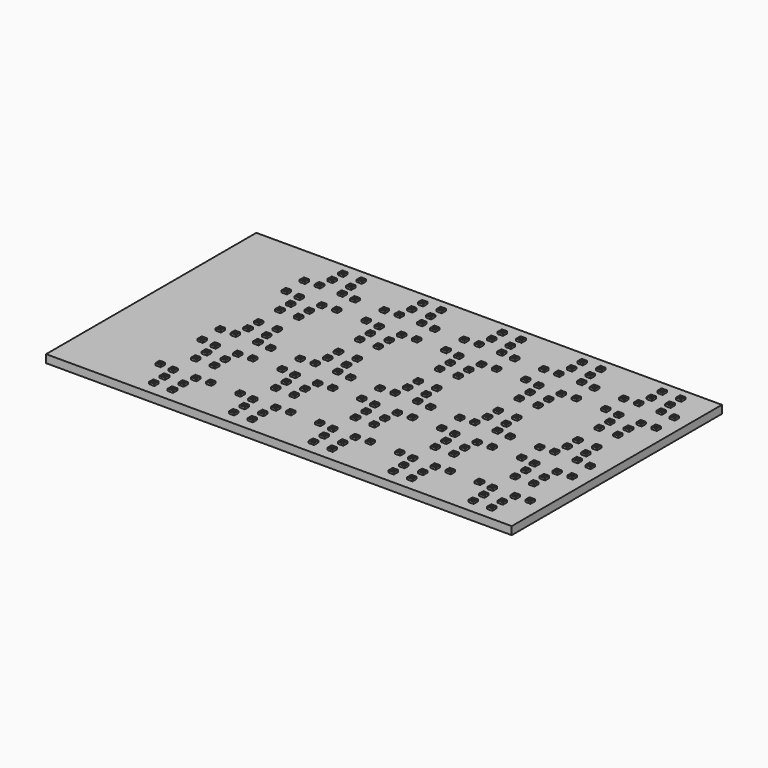
from build123d import *

# Parameters (mm, degrees)
F1_DEPTH     = 12
F2_W         = 8
F2_H         = 8
F3_DEPTH     = 15
F4_D         = 4
F5_D         = 4
F6_D         = 4
F1_FACE1_W   = 700
F1_FACE1_H   = 395
F1_FACE1_W_2 = 8
F1_FACE1_H_2 = 8
F8_DEPTH     = 4.46


with BuildPart() as f1:
    # F0 (on Top) → F1 (new body)
    with BuildSketch(Plane.XY):
        Polygon((-700, 0), (0, 0), (0, 395), (-60, 395), (-700, 395), align=None)
    extrude(amount=F1_DEPTH)

    # F2 (on face) → F3 (join)
    with BuildSketch(Plane.XY):
        with Locations((-22, 62)):
            Rectangle(F2_W, F2_H)
        with Locations((-46, 20)):
            Rectangle(F2_W, F2_H)
        with Locations((-46, 40)):
            Rectangle(F2_W, F2_H)
        with Locations((-43, 60)):
            Rectangle(F2_W, F2_H)
        with Locations((-46, 99)):
            Rectangle(F2_W, F2_H)
        with Locations((-46, 119)):
            Rectangle(F2_W, F2_H)
        with Locations((-43, 139)):
            Rectangle(F2_W, F2_H)
        with Locations((-22, 141)):
            Rectangle(F2_W, F2_H)
        with Locations((-22, 175)):
            Rectangle(F2_W, F2_H)
        with Locations((-43, 177)):
            Rectangle(F2_W, F2_H)
        with Locations((-46, 197)):
            Rectangle(F2_W, F2_H)
        with Locations((-46, 217)):
            Rectangle(F2_W, F2_H)
        with Locations((-46, 257)):
            Rectangle(F2_W, F2_H)
        with Locations((-46, 277)):
            Rectangle(F2_W, F2_H)
        with Locations((-43, 297)):
            Rectangle(F2_W, F2_H)
        with Locations((-22, 299)):
            Rectangle(F2_W, F2_H)
        with Locations((-22, 333)):
            Rectangle(F2_W, F2_H)
        with Locations((-43, 335)):
            Rectangle(F2_W, F2_H)
        with Locations((-46, 355)):
            Rectangle(F2_W, F2_H)
        with Locations((-46, 375)):
            Rectangle(F2_W, F2_H)
        with Locations((-77, 139)):
            Rectangle(F2_W, F2_H)
        with Locations((-77, 297)):
            Rectangle(F2_W, F2_H)
        with Locations((-74, 277)):
            Rectangle(F2_W, F2_H)
        with Locations((-74, 40)):
            Rectangle(F2_W, F2_H)
        with Locations((-74, 257)):
            Rectangle(F2_W, F2_H)
        with Locations((-74, 217)):
            Rectangle(F2_W, F2_H)
        with Locations((-74, 197)):
            Rectangle(F2_W, F2_H)
        with Locations((-74, 119)):
            Rectangle(F2_W, F2_H)
        with Locations((-74, 375)):
            Rectangle(F2_W, F2_H)
        with Locations((-77, 335)):
            Rectangle(F2_W, F2_H)
        with Locations((-77, 177)):
            Rectangle(F2_W, F2_H)
        with Locations((-74, 355)):
            Rectangle(F2_W, F2_H)
        with Locations((-77, 60)):
            Rectangle(F2_W, F2_H)
        with Locations((-74, 20)):
            Rectangle(F2_W, F2_H)
        with Locations((-74, 99)):
            Rectangle(F2_W, F2_H)
        with Locations((-98, 141)):
            Rectangle(F2_W, F2_H)
        with Locations((-98, 333)):
            Rectangle(F2_W, F2_H)
        with Locations((-98, 299)):
            Rectangle(F2_W, F2_H)
        with Locations((-98, 62)):
            Rectangle(F2_W, F2_H)
        with Locations((-98, 175)):
            Rectangle(F2_W, F2_H)
        with Locations((-218, 333)):
            Rectangle(F2_W, F2_H)
        with Locations((-142, 333)):
            Rectangle(F2_W, F2_H)
        with Locations((-166, 99)):
            Rectangle(F2_W, F2_H)
        with Locations((-194, 217)):
            Rectangle(F2_W, F2_H)
        with Locations((-218, 62)):
            Rectangle(F2_W, F2_H)
        with Locations((-166, 217)):
            Rectangle(F2_W, F2_H)
        with Locations((-194, 197)):
            Rectangle(F2_W, F2_H)
        with Locations((-218, 299)):
            Rectangle(F2_W, F2_H)
        with Locations((-218, 141)):
            Rectangle(F2_W, F2_H)
        with Locations((-142, 175)):
            Rectangle(F2_W, F2_H)
        with Locations((-142, 62)):
            Rectangle(F2_W, F2_H)
        with Locations((-194, 375)):
            Rectangle(F2_W, F2_H)
        with Locations((-197, 60)):
            Rectangle(F2_W, F2_H)
        with Locations((-218, 175)):
            Rectangle(F2_W, F2_H)
        with Locations((-166, 375)):
            Rectangle(F2_W, F2_H)
        with Locations((-166, 257)):
            Rectangle(F2_W, F2_H)
        with Locations((-166, 355)):
            Rectangle(F2_W, F2_H)
        with Locations((-166, 197)):
            Rectangle(F2_W, F2_H)
        with Locations((-163, 177)):
            Rectangle(F2_W, F2_H)
        with Locations((-197, 297)):
            Rectangle(F2_W, F2_H)
        with Locations((-194, 257)):
            Rectangle(F2_W, F2_H)
        with Locations((-163, 60)):
            Rectangle(F2_W, F2_H)
        with Locations((-197, 139)):
            Rectangle(F2_W, F2_H)
        with Locations((-197, 177)):
            Rectangle(F2_W, F2_H)
        with Locations((-194, 40)):
            Rectangle(F2_W, F2_H)
        with Locations((-166, 20)):
            Rectangle(F2_W, F2_H)
        with Locations((-194, 119)):
            Rectangle(F2_W, F2_H)
        with Locations((-194, 20)):
            Rectangle(F2_W, F2_H)
        with Locations((-194, 355)):
            Rectangle(F2_W, F2_H)
        with Locations((-166, 40)):
            Rectangle(F2_W, F2_H)
        with Locations((-194, 99)):
            Rectangle(F2_W, F2_H)
        with Locations((-197, 335)):
            Rectangle(F2_W, F2_H)
        with Locations((-163, 139)):
            Rectangle(F2_W, F2_H)
        with Locations((-163, 335)):
            Rectangle(F2_W, F2_H)
        with Locations((-142, 141)):
            Rectangle(F2_W, F2_H)
        with Locations((-163, 297)):
            Rectangle(F2_W, F2_H)
        with Locations((-142, 299)):
            Rectangle(F2_W, F2_H)
        with Locations((-166, 119)):
            Rectangle(F2_W, F2_H)
        with Locations((-166, 277)):
            Rectangle(F2_W, F2_H)
        with Locations((-194, 277)):
            Rectangle(F2_W, F2_H)
        with Locations((-338, 333)):
            Rectangle(F2_W, F2_H)
        with Locations((-262, 333)):
            Rectangle(F2_W, F2_H)
        with Locations((-286, 99)):
            Rectangle(F2_W, F2_H)
        with Locations((-314, 217)):
            Rectangle(F2_W, F2_H)
        with Locations((-338, 62)):
            Rectangle(F2_W, F2_H)
        with Locations((-286, 217)):
            Rectangle(F2_W, F2_H)
        with Locations((-314, 197)):
            Rectangle(F2_W, F2_H)
        with Locations((-338, 299)):
            Rectangle(F2_W, F2_H)
        with Locations((-338, 141)):
            Rectangle(F2_W, F2_H)
        with Locations((-262, 175)):
            Rectangle(F2_W, F2_H)
        with Locations((-262, 62)):
            Rectangle(F2_W, F2_H)
        with Locations((-314, 375)):
            Rectangle(F2_W, F2_H)
        with Locations((-317, 60)):
            Rectangle(F2_W, F2_H)
        with Locations((-338, 175)):
            Rectangle(F2_W, F2_H)
        with Locations((-286, 375)):
            Rectangle(F2_W, F2_H)
        with Locations((-286, 257)):
            Rectangle(F2_W, F2_H)
        with Locations((-286, 355)):
            Rectangle(F2_W, F2_H)
        with Locations((-286, 197)):
            Rectangle(F2_W, F2_H)
        with Locations((-283, 177)):
            Rectangle(F2_W, F2_H)
        with Locations((-317, 297)):
            Rectangle(F2_W, F2_H)
        with Locations((-314, 257)):
            Rectangle(F2_W, F2_H)
        with Locations((-283, 60)):
            Rectangle(F2_W, F2_H)
        with Locations((-317, 139)):
            Rectangle(F2_W, F2_H)
        with Locations((-317, 177)):
            Rectangle(F2_W, F2_H)
        with Locations((-314, 40)):
            Rectangle(F2_W, F2_H)
        with Locations((-286, 20)):
            Rectangle(F2_W, F2_H)
        with Locations((-314, 119)):
            Rectangle(F2_W, F2_H)
        with Locations((-314, 20)):
            Rectangle(F2_W, F2_H)
        with Locations((-314, 355)):
            Rectangle(F2_W, F2_H)
        with Locations((-286, 40)):
            Rectangle(F2_W, F2_H)
        with Locations((-314, 99)):
            Rectangle(F2_W, F2_H)
        with Locations((-317, 335)):
            Rectangle(F2_W, F2_H)
        with Locations((-283, 139)):
            Rectangle(F2_W, F2_H)
        with Locations((-283, 335)):
            Rectangle(F2_W, F2_H)
        with Locations((-262, 141)):
            Rectangle(F2_W, F2_H)
        with Locations((-283, 297)):
            Rectangle(F2_W, F2_H)
        with Locations((-262, 299)):
            Rectangle(F2_W, F2_H)
        with Locations((-286, 119)):
            Rectangle(F2_W, F2_H)
        with Locations((-286, 277)):
            Rectangle(F2_W, F2_H)
        with Locations((-314, 277)):
            Rectangle(F2_W, F2_H)
        with Locations((-458, 333)):
            Rectangle(F2_W, F2_H)
        with Locations((-382, 333)):
            Rectangle(F2_W, F2_H)
        with Locations((-406, 99)):
            Rectangle(F2_W, F2_H)
        with Locations((-434, 217)):
            Rectangle(F2_W, F2_H)
        with Locations((-458, 62)):
            Rectangle(F2_W, F2_H)
        with Locations((-406, 217)):
            Rectangle(F2_W, F2_H)
        with Locations((-434, 197)):
            Rectangle(F2_W, F2_H)
        with Locations((-458, 299)):
            Rectangle(F2_W, F2_H)
        with Locations((-458, 141)):
            Rectangle(F2_W, F2_H)
        with Locations((-382, 175)):
            Rectangle(F2_W, F2_H)
        with Locations((-382, 62)):
            Rectangle(F2_W, F2_H)
        with Locations((-434, 375)):
            Rectangle(F2_W, F2_H)
        with Locations((-437, 60)):
            Rectangle(F2_W, F2_H)
        with Locations((-458, 175)):
            Rectangle(F2_W, F2_H)
        with Locations((-406, 375)):
            Rectangle(F2_W, F2_H)
        with Locations((-406, 257)):
            Rectangle(F2_W, F2_H)
        with Locations((-406, 355)):
            Rectangle(F2_W, F2_H)
        with Locations((-406, 197)):
            Rectangle(F2_W, F2_H)
        with Locations((-403, 177)):
            Rectangle(F2_W, F2_H)
        with Locations((-437, 297)):
            Rectangle(F2_W, F2_H)
        with Locations((-434, 257)):
            Rectangle(F2_W, F2_H)
        with Locations((-403, 60)):
            Rectangle(F2_W, F2_H)
        with Locations((-437, 139)):
            Rectangle(F2_W, F2_H)
        with Locations((-437, 177)):
            Rectangle(F2_W, F2_H)
        with Locations((-434, 40)):
            Rectangle(F2_W, F2_H)
        with Locations((-406, 20)):
            Rectangle(F2_W, F2_H)
        with Locations((-434, 119)):
            Rectangle(F2_W, F2_H)
        with Locations((-434, 20)):
            Rectangle(F2_W, F2_H)
        with Locations((-434, 355)):
            Rectangle(F2_W, F2_H)
        with Locations((-406, 40)):
            Rectangle(F2_W, F2_H)
        with Locations((-434, 99)):
            Rectangle(F2_W, F2_H)
        with Locations((-437, 335)):
            Rectangle(F2_W, F2_H)
        with Locations((-403, 139)):
            Rectangle(F2_W, F2_H)
        with Locations((-403, 335)):
            Rectangle(F2_W, F2_H)
        with Locations((-382, 141)):
            Rectangle(F2_W, F2_H)
        with Locations((-403, 297)):
            Rectangle(F2_W, F2_H)
        with Locations((-382, 299)):
            Rectangle(F2_W, F2_H)
        with Locations((-406, 119)):
            Rectangle(F2_W, F2_H)
        with Locations((-406, 277)):
            Rectangle(F2_W, F2_H)
        with Locations((-434, 277)):
            Rectangle(F2_W, F2_H)
        with Locations((-578, 333)):
            Rectangle(F2_W, F2_H)
        with Locations((-502, 333)):
            Rectangle(F2_W, F2_H)
        with Locations((-526, 99)):
            Rectangle(F2_W, F2_H)
        with Locations((-554, 217)):
            Rectangle(F2_W, F2_H)
        with Locations((-578, 62)):
            Rectangle(F2_W, F2_H)
        with Locations((-526, 217)):
            Rectangle(F2_W, F2_H)
        with Locations((-554, 197)):
            Rectangle(F2_W, F2_H)
        with Locations((-578, 299)):
            Rectangle(F2_W, F2_H)
        with Locations((-578, 141)):
            Rectangle(F2_W, F2_H)
        with Locations((-502, 175)):
            Rectangle(F2_W, F2_H)
        with Locations((-502, 62)):
            Rectangle(F2_W, F2_H)
        with Locations((-554, 375)):
            Rectangle(F2_W, F2_H)
        with Locations((-557, 60)):
            Rectangle(F2_W, F2_H)
        with Locations((-578, 175)):
            Rectangle(F2_W, F2_H)
        with Locations((-526, 375)):
            Rectangle(F2_W, F2_H)
        with Locations((-526, 257)):
            Rectangle(F2_W, F2_H)
        with Locations((-526, 355)):
            Rectangle(F2_W, F2_H)
        with Locations((-526, 197)):
            Rectangle(F2_W, F2_H)
        with Locations((-523, 177)):
            Rectangle(F2_W, F2_H)
        with Locations((-557, 297)):
            Rectangle(F2_W, F2_H)
        with Locations((-554, 257)):
            Rectangle(F2_W, F2_H)
        with Locations((-523, 60)):
            Rectangle(F2_W, F2_H)
        with Locations((-557, 139)):
            Rectangle(F2_W, F2_H)
        with Locations((-557, 177)):
            Rectangle(F2_W, F2_H)
        with Locations((-554, 40)):
            Rectangle(F2_W, F2_H)
        with Locations((-526, 20)):
            Rectangle(F2_W, F2_H)
        with Locations((-554, 119)):
            Rectangle(F2_W, F2_H)
        with Locations((-554, 20)):
            Rectangle(F2_W, F2_H)
        with Locations((-554, 355)):
            Rectangle(F2_W, F2_H)
        with Locations((-526, 40)):
            Rectangle(F2_W, F2_H)
        with Locations((-554, 99)):
            Rectangle(F2_W, F2_H)
        with Locations((-557, 335)):
            Rectangle(F2_W, F2_H)
        with Locations((-523, 139)):
            Rectangle(F2_W, F2_H)
        with Locations((-523, 335)):
            Rectangle(F2_W, F2_H)
        with Locations((-502, 141)):
            Rectangle(F2_W, F2_H)
        with Locations((-523, 297)):
            Rectangle(F2_W, F2_H)
        with Locations((-502, 299)):
            Rectangle(F2_W, F2_H)
        with Locations((-526, 119)):
            Rectangle(F2_W, F2_H)
        with Locations((-526, 277)):
            Rectangle(F2_W, F2_H)
        with Locations((-554, 277)):
            Rectangle(F2_W, F2_H)
    extrude(amount=F3_DEPTH)

    # F4 (through all)
    with Locations(Plane(origin=(0, 0, 0), x_dir=(1, 0, 0), z_dir=(0, 0, -1))):
        with Locations((-406, -257), (-314, -277), (-262, -333), (-46, -217), (-437, -297), (-314, -257), (-403, -335), (-578, -333), (-166, -375), (-338, -333), (-554, -257), (-74, -217), (-166, -197), (-434, -375), (-578, -299), (-406, -197), (-526, -257), (-523, -335), (-74, -277), (-77, -297), (-314, -217), (-74, -197), (-406, -277), (-166, -277), (-382, -333), (-286, -277), (-98, -333), (-194, -375), (-262, -299), (-437, -335), (-434, -257), (-46, -197), (-46, -375), (-43, -297), (-197, -297), (-166, -355), (-43, -335), (-194, -217), (-458, -299), (-286, -257), (-46, -277), (-286, -355), (-142, -333), (-218, -299), (-403, -297), (-554, -277), (-557, -297), (-526, -217), (-163, -335), (-46, -257), (-218, -333), (-163, -297), (-194, -197), (-526, -197), (-434, -277), (-314, -375), (-166, -217), (-458, -333), (-406, -375), (-554, -197), (-317, -297), (-286, -375), (-434, -217), (-286, -217), (-77, -335), (-142, -299), (-46, -355), (-194, -355), (-314, -355), (-98, -299), (-314, -197), (-557, -335), (-526, -375), (-283, -297), (-74, -375), (-74, -257), (-523, -297), (-554, -375), (-502, -333), (-338, -299), (-194, -257), (-22, -299), (-554, -217), (-526, -277), (-526, -355), (-22, -333), (-286, -197), (-434, -355), (-74, -355), (-406, -217), (-283, -335), (-382, -299), (-317, -335), (-194, -277), (-502, -299), (-166, -257), (-554, -355), (-197, -335), (-434, -197), (-406, -355)):
            Hole(F4_D / 2)

    # F5 (through all)
    with Locations(Plane(origin=(0, 0, 0), x_dir=(1, 0, 0), z_dir=(0, 0, -1))):
        with Locations((-434, -40), (-163, -60), (-166, -119), (-523, -139), (-578, -62), (-382, -141), (-458, -141), (-194, -40), (-554, -40), (-406, -99), (-314, -119), (-194, -20), (-286, -40), (-286, -119), (-262, -141), (-74, -40), (-74, -20), (-166, -99), (-283, -60), (-406, -20), (-502, -62), (-194, -99), (-382, -62), (-434, -119), (-578, -141), (-218, -141), (-166, -20), (-437, -139), (-554, -119), (-218, -62), (-142, -141), (-286, -20), (-194, -119), (-406, -40), (-142, -62), (-317, -60), (-338, -141), (-283, -139), (-197, -60), (-286, -99), (-434, -99), (-197, -139), (-317, -139), (-526, -99), (-77, -139), (-338, -62), (-403, -139), (-437, -60), (-166, -40), (-526, -40), (-314, -20), (-163, -139), (-98, -62), (-434, -20), (-98, -141), (-406, -119), (-77, -60), (-74, -119), (-262, -62), (-554, -20), (-502, -141), (-526, -20), (-314, -99), (-557, -139), (-403, -60), (-458, -62), (-314, -40), (-557, -60), (-554, -99), (-526, -119), (-74, -99), (-523, -60), (-46, -119), (-46, -99), (-43, -60), (-46, -40), (-46, -20), (-22, -141), (-22, -62), (-43, -139)):
            Hole(F5_D / 2)

    # F6 (through all)
    with Locations(Plane(origin=(0, 0, 0), x_dir=(1, 0, 0), z_dir=(0, 0, -1))):
        with Locations((-43, -177), (-338, -175), (-317, -177), (-197, -177), (-458, -175), (-218, -175), (-578, -175), (-557, -177), (-502, -175), (-77, -177), (-283, -177), (-163, -177), (-22, -175), (-437, -177), (-142, -175), (-262, -175), (-382, -175), (-403, -177), (-98, -175), (-523, -177)):
            Hole(F6_D / 2)

    # F7 (on face) + F1_face1 (on face) → F8 (cut)
    with BuildSketch(Plane(origin=(0, 0, 0), x_dir=(1, 0, 0), z_dir=(0, 0, -1))):
        with BuildLine():
            Line((-700, -390), (-25, -390))
            ThreePointArc((-25, -390), (-10.8578643763, -384.1421356237), (-5, -370))
            Line((-5, -370), (-5, -25))
            ThreePointArc((-5, -25), (-10.8578643763, -10.8578643763), (-25, -5))
            Line((-25, -5), (-700, -5))
            Line((-700, -5), (-700, -390))
        make_face()
    with BuildSketch(Plane(origin=(-352.4270003792, 197.4417519909, 12), x_dir=(1, 0, 0), z_dir=(0, 0, 1))):
        with Locations((2.4270003792, 0.0582480091)):
            Rectangle(F1_FACE1_W, F1_FACE1_H)
        with Locations((-201.5729996208, -177.4417519909)):
            Rectangle(F1_FACE1_W_2, F1_FACE1_H_2, mode=Mode.SUBTRACT)
        with Locations((-173.5729996208, -177.4417519909)):
            Rectangle(F1_FACE1_W_2, F1_FACE1_H_2, mode=Mode.SUBTRACT)
        with Locations((-201.5729996208, -157.4417519909)):
            Rectangle(F1_FACE1_W_2, F1_FACE1_H_2, mode=Mode.SUBTRACT)
        with Locations((-204.5729996208, -137.4417519909)):
            Rectangle(F1_FACE1_W_2, F1_FACE1_H_2, mode=Mode.SUBTRACT)
        with Locations((-173.5729996208, -157.4417519909)):
            Rectangle(F1_FACE1_W_2, F1_FACE1_H_2, mode=Mode.SUBTRACT)
        with Locations((-170.5729996208, -137.4417519909)):
            Rectangle(F1_FACE1_W_2, F1_FACE1_H_2, mode=Mode.SUBTRACT)
        with Locations((-225.5729996208, -135.4417519909)):
            Rectangle(F1_FACE1_W_2, F1_FACE1_H_2, mode=Mode.SUBTRACT)
        with Locations((-201.5729996208, -98.4417519909)):
            Rectangle(F1_FACE1_W_2, F1_FACE1_H_2, mode=Mode.SUBTRACT)
        with Locations((-173.5729996208, -98.4417519909)):
            Rectangle(F1_FACE1_W_2, F1_FACE1_H_2, mode=Mode.SUBTRACT)
        with Locations((-149.5729996208, -135.4417519909)):
            Rectangle(F1_FACE1_W_2, F1_FACE1_H_2, mode=Mode.SUBTRACT)
        with Locations((-105.5729996208, -135.4417519909)):
            Rectangle(F1_FACE1_W_2, F1_FACE1_H_2, mode=Mode.SUBTRACT)
        with Locations((-81.5729996208, -177.4417519909)):
            Rectangle(F1_FACE1_W_2, F1_FACE1_H_2, mode=Mode.SUBTRACT)
        with Locations((-53.5729996208, -177.4417519909)):
            Rectangle(F1_FACE1_W_2, F1_FACE1_H_2, mode=Mode.SUBTRACT)
        with Locations((-81.5729996208, -157.4417519909)):
            Rectangle(F1_FACE1_W_2, F1_FACE1_H_2, mode=Mode.SUBTRACT)
        with Locations((-53.5729996208, -157.4417519909)):
            Rectangle(F1_FACE1_W_2, F1_FACE1_H_2, mode=Mode.SUBTRACT)
        with Locations((-84.5729996208, -137.4417519909)):
            Rectangle(F1_FACE1_W_2, F1_FACE1_H_2, mode=Mode.SUBTRACT)
        with Locations((-50.5729996208, -137.4417519909)):
            Rectangle(F1_FACE1_W_2, F1_FACE1_H_2, mode=Mode.SUBTRACT)
        with Locations((38.4270003792, -177.4417519909)):
            Rectangle(F1_FACE1_W_2, F1_FACE1_H_2, mode=Mode.SUBTRACT)
        with Locations((38.4270003792, -157.4417519909)):
            Rectangle(F1_FACE1_W_2, F1_FACE1_H_2, mode=Mode.SUBTRACT)
        with Locations((35.4270003792, -137.4417519909)):
            Rectangle(F1_FACE1_W_2, F1_FACE1_H_2, mode=Mode.SUBTRACT)
        with Locations((-29.5729996208, -135.4417519909)):
            Rectangle(F1_FACE1_W_2, F1_FACE1_H_2, mode=Mode.SUBTRACT)
        with Locations((-81.5729996208, -98.4417519909)):
            Rectangle(F1_FACE1_W_2, F1_FACE1_H_2, mode=Mode.SUBTRACT)
        with Locations((-53.5729996208, -98.4417519909)):
            Rectangle(F1_FACE1_W_2, F1_FACE1_H_2, mode=Mode.SUBTRACT)
        with Locations((14.4270003792, -135.4417519909)):
            Rectangle(F1_FACE1_W_2, F1_FACE1_H_2, mode=Mode.SUBTRACT)
        with Locations((38.4270003792, -98.4417519909)):
            Rectangle(F1_FACE1_W_2, F1_FACE1_H_2, mode=Mode.SUBTRACT)
        with Locations((-201.5729996208, -78.4417519909)):
            Rectangle(F1_FACE1_W_2, F1_FACE1_H_2, mode=Mode.SUBTRACT)
        with Locations((-173.5729996208, -78.4417519909)):
            Rectangle(F1_FACE1_W_2, F1_FACE1_H_2, mode=Mode.SUBTRACT)
        with Locations((-204.5729996208, -58.4417519909)):
            Rectangle(F1_FACE1_W_2, F1_FACE1_H_2, mode=Mode.SUBTRACT)
        with Locations((-225.5729996208, -56.4417519909)):
            Rectangle(F1_FACE1_W_2, F1_FACE1_H_2, mode=Mode.SUBTRACT)
        with Locations((-170.5729996208, -58.4417519909)):
            Rectangle(F1_FACE1_W_2, F1_FACE1_H_2, mode=Mode.SUBTRACT)
        with Locations((-149.5729996208, -56.4417519909)):
            Rectangle(F1_FACE1_W_2, F1_FACE1_H_2, mode=Mode.SUBTRACT)
        with Locations((-105.5729996208, -56.4417519909)):
            Rectangle(F1_FACE1_W_2, F1_FACE1_H_2, mode=Mode.SUBTRACT)
        with Locations((-225.5729996208, -22.4417519909)):
            Rectangle(F1_FACE1_W_2, F1_FACE1_H_2, mode=Mode.SUBTRACT)
        with Locations((-204.5729996208, -20.4417519909)):
            Rectangle(F1_FACE1_W_2, F1_FACE1_H_2, mode=Mode.SUBTRACT)
        with Locations((-201.5729996208, -0.4417519909)):
            Rectangle(F1_FACE1_W_2, F1_FACE1_H_2, mode=Mode.SUBTRACT)
        with Locations((-170.5729996208, -20.4417519909)):
            Rectangle(F1_FACE1_W_2, F1_FACE1_H_2, mode=Mode.SUBTRACT)
        with Locations((-173.5729996208, -0.4417519909)):
            Rectangle(F1_FACE1_W_2, F1_FACE1_H_2, mode=Mode.SUBTRACT)
        with Locations((-149.5729996208, -22.4417519909)):
            Rectangle(F1_FACE1_W_2, F1_FACE1_H_2, mode=Mode.SUBTRACT)
        with Locations((-105.5729996208, -22.4417519909)):
            Rectangle(F1_FACE1_W_2, F1_FACE1_H_2, mode=Mode.SUBTRACT)
        with Locations((-81.5729996208, -78.4417519909)):
            Rectangle(F1_FACE1_W_2, F1_FACE1_H_2, mode=Mode.SUBTRACT)
        with Locations((-53.5729996208, -78.4417519909)):
            Rectangle(F1_FACE1_W_2, F1_FACE1_H_2, mode=Mode.SUBTRACT)
        with Locations((-84.5729996208, -58.4417519909)):
            Rectangle(F1_FACE1_W_2, F1_FACE1_H_2, mode=Mode.SUBTRACT)
        with Locations((-50.5729996208, -58.4417519909)):
            Rectangle(F1_FACE1_W_2, F1_FACE1_H_2, mode=Mode.SUBTRACT)
        with Locations((-29.5729996208, -56.4417519909)):
            Rectangle(F1_FACE1_W_2, F1_FACE1_H_2, mode=Mode.SUBTRACT)
        with Locations((38.4270003792, -78.4417519909)):
            Rectangle(F1_FACE1_W_2, F1_FACE1_H_2, mode=Mode.SUBTRACT)
        with Locations((14.4270003792, -56.4417519909)):
            Rectangle(F1_FACE1_W_2, F1_FACE1_H_2, mode=Mode.SUBTRACT)
        with Locations((35.4270003792, -58.4417519909)):
            Rectangle(F1_FACE1_W_2, F1_FACE1_H_2, mode=Mode.SUBTRACT)
        with Locations((-84.5729996208, -20.4417519909)):
            Rectangle(F1_FACE1_W_2, F1_FACE1_H_2, mode=Mode.SUBTRACT)
        with Locations((-81.5729996208, -0.4417519909)):
            Rectangle(F1_FACE1_W_2, F1_FACE1_H_2, mode=Mode.SUBTRACT)
        with Locations((-53.5729996208, -0.4417519909)):
            Rectangle(F1_FACE1_W_2, F1_FACE1_H_2, mode=Mode.SUBTRACT)
        with Locations((-50.5729996208, -20.4417519909)):
            Rectangle(F1_FACE1_W_2, F1_FACE1_H_2, mode=Mode.SUBTRACT)
        with Locations((-29.5729996208, -22.4417519909)):
            Rectangle(F1_FACE1_W_2, F1_FACE1_H_2, mode=Mode.SUBTRACT)
        with Locations((14.4270003792, -22.4417519909)):
            Rectangle(F1_FACE1_W_2, F1_FACE1_H_2, mode=Mode.SUBTRACT)
        with Locations((35.4270003792, -20.4417519909)):
            Rectangle(F1_FACE1_W_2, F1_FACE1_H_2, mode=Mode.SUBTRACT)
        with Locations((38.4270003792, -0.4417519909)):
            Rectangle(F1_FACE1_W_2, F1_FACE1_H_2, mode=Mode.SUBTRACT)
        with Locations((66.4270003792, -177.4417519909)):
            Rectangle(F1_FACE1_W_2, F1_FACE1_H_2, mode=Mode.SUBTRACT)
        with Locations((66.4270003792, -157.4417519909)):
            Rectangle(F1_FACE1_W_2, F1_FACE1_H_2, mode=Mode.SUBTRACT)
        with Locations((69.4270003792, -137.4417519909)):
            Rectangle(F1_FACE1_W_2, F1_FACE1_H_2, mode=Mode.SUBTRACT)
        with Locations((158.4270003792, -177.4417519909)):
            Rectangle(F1_FACE1_W_2, F1_FACE1_H_2, mode=Mode.SUBTRACT)
        with Locations((186.4270003792, -177.4417519909)):
            Rectangle(F1_FACE1_W_2, F1_FACE1_H_2, mode=Mode.SUBTRACT)
        with Locations((155.4270003792, -137.4417519909)):
            Rectangle(F1_FACE1_W_2, F1_FACE1_H_2, mode=Mode.SUBTRACT)
        with Locations((158.4270003792, -157.4417519909)):
            Rectangle(F1_FACE1_W_2, F1_FACE1_H_2, mode=Mode.SUBTRACT)
        with Locations((186.4270003792, -157.4417519909)):
            Rectangle(F1_FACE1_W_2, F1_FACE1_H_2, mode=Mode.SUBTRACT)
        with Locations((189.4270003792, -137.4417519909)):
            Rectangle(F1_FACE1_W_2, F1_FACE1_H_2, mode=Mode.SUBTRACT)
        with Locations((90.4270003792, -135.4417519909)):
            Rectangle(F1_FACE1_W_2, F1_FACE1_H_2, mode=Mode.SUBTRACT)
        with Locations((66.4270003792, -98.4417519909)):
            Rectangle(F1_FACE1_W_2, F1_FACE1_H_2, mode=Mode.SUBTRACT)
        with Locations((134.4270003792, -135.4417519909)):
            Rectangle(F1_FACE1_W_2, F1_FACE1_H_2, mode=Mode.SUBTRACT)
        with Locations((158.4270003792, -98.4417519909)):
            Rectangle(F1_FACE1_W_2, F1_FACE1_H_2, mode=Mode.SUBTRACT)
        with Locations((186.4270003792, -98.4417519909)):
            Rectangle(F1_FACE1_W_2, F1_FACE1_H_2, mode=Mode.SUBTRACT)
        with Locations((278.4270003792, -177.4417519909)):
            Rectangle(F1_FACE1_W_2, F1_FACE1_H_2, mode=Mode.SUBTRACT)
        with Locations((306.4270003792, -177.4417519909)):
            Rectangle(F1_FACE1_W_2, F1_FACE1_H_2, mode=Mode.SUBTRACT)
        with Locations((278.4270003792, -157.4417519909)):
            Rectangle(F1_FACE1_W_2, F1_FACE1_H_2, mode=Mode.SUBTRACT)
        with Locations((275.4270003792, -137.4417519909)):
            Rectangle(F1_FACE1_W_2, F1_FACE1_H_2, mode=Mode.SUBTRACT)
        with Locations((306.4270003792, -157.4417519909)):
            Rectangle(F1_FACE1_W_2, F1_FACE1_H_2, mode=Mode.SUBTRACT)
        with Locations((309.4270003792, -137.4417519909)):
            Rectangle(F1_FACE1_W_2, F1_FACE1_H_2, mode=Mode.SUBTRACT)
        with Locations((210.4270003792, -135.4417519909)):
            Rectangle(F1_FACE1_W_2, F1_FACE1_H_2, mode=Mode.SUBTRACT)
        with Locations((254.4270003792, -135.4417519909)):
            Rectangle(F1_FACE1_W_2, F1_FACE1_H_2, mode=Mode.SUBTRACT)
        with Locations((330.4270003792, -135.4417519909)):
            Rectangle(F1_FACE1_W_2, F1_FACE1_H_2, mode=Mode.SUBTRACT)
        with Locations((278.4270003792, -98.4417519909)):
            Rectangle(F1_FACE1_W_2, F1_FACE1_H_2, mode=Mode.SUBTRACT)
        with Locations((306.4270003792, -98.4417519909)):
            Rectangle(F1_FACE1_W_2, F1_FACE1_H_2, mode=Mode.SUBTRACT)
        with Locations((66.4270003792, -78.4417519909)):
            Rectangle(F1_FACE1_W_2, F1_FACE1_H_2, mode=Mode.SUBTRACT)
        with Locations((69.4270003792, -58.4417519909)):
            Rectangle(F1_FACE1_W_2, F1_FACE1_H_2, mode=Mode.SUBTRACT)
        with Locations((90.4270003792, -56.4417519909)):
            Rectangle(F1_FACE1_W_2, F1_FACE1_H_2, mode=Mode.SUBTRACT)
        with Locations((158.4270003792, -78.4417519909)):
            Rectangle(F1_FACE1_W_2, F1_FACE1_H_2, mode=Mode.SUBTRACT)
        with Locations((186.4270003792, -78.4417519909)):
            Rectangle(F1_FACE1_W_2, F1_FACE1_H_2, mode=Mode.SUBTRACT)
        with Locations((155.4270003792, -58.4417519909)):
            Rectangle(F1_FACE1_W_2, F1_FACE1_H_2, mode=Mode.SUBTRACT)
        with Locations((134.4270003792, -56.4417519909)):
            Rectangle(F1_FACE1_W_2, F1_FACE1_H_2, mode=Mode.SUBTRACT)
        with Locations((189.4270003792, -58.4417519909)):
            Rectangle(F1_FACE1_W_2, F1_FACE1_H_2, mode=Mode.SUBTRACT)
        with Locations((69.4270003792, -20.4417519909)):
            Rectangle(F1_FACE1_W_2, F1_FACE1_H_2, mode=Mode.SUBTRACT)
        with Locations((66.4270003792, -0.4417519909)):
            Rectangle(F1_FACE1_W_2, F1_FACE1_H_2, mode=Mode.SUBTRACT)
        with Locations((90.4270003792, -22.4417519909)):
            Rectangle(F1_FACE1_W_2, F1_FACE1_H_2, mode=Mode.SUBTRACT)
        with Locations((134.4270003792, -22.4417519909)):
            Rectangle(F1_FACE1_W_2, F1_FACE1_H_2, mode=Mode.SUBTRACT)
        with Locations((155.4270003792, -20.4417519909)):
            Rectangle(F1_FACE1_W_2, F1_FACE1_H_2, mode=Mode.SUBTRACT)
        with Locations((189.4270003792, -20.4417519909)):
            Rectangle(F1_FACE1_W_2, F1_FACE1_H_2, mode=Mode.SUBTRACT)
        with Locations((158.4270003792, -0.4417519909)):
            Rectangle(F1_FACE1_W_2, F1_FACE1_H_2, mode=Mode.SUBTRACT)
        with Locations((186.4270003792, -0.4417519909)):
            Rectangle(F1_FACE1_W_2, F1_FACE1_H_2, mode=Mode.SUBTRACT)
        with Locations((210.4270003792, -56.4417519909)):
            Rectangle(F1_FACE1_W_2, F1_FACE1_H_2, mode=Mode.SUBTRACT)
        with Locations((254.4270003792, -56.4417519909)):
            Rectangle(F1_FACE1_W_2, F1_FACE1_H_2, mode=Mode.SUBTRACT)
        with Locations((278.4270003792, -78.4417519909)):
            Rectangle(F1_FACE1_W_2, F1_FACE1_H_2, mode=Mode.SUBTRACT)
        with Locations((306.4270003792, -78.4417519909)):
            Rectangle(F1_FACE1_W_2, F1_FACE1_H_2, mode=Mode.SUBTRACT)
        with Locations((275.4270003792, -58.4417519909)):
            Rectangle(F1_FACE1_W_2, F1_FACE1_H_2, mode=Mode.SUBTRACT)
        with Locations((309.4270003792, -58.4417519909)):
            Rectangle(F1_FACE1_W_2, F1_FACE1_H_2, mode=Mode.SUBTRACT)
        with Locations((330.4270003792, -56.4417519909)):
            Rectangle(F1_FACE1_W_2, F1_FACE1_H_2, mode=Mode.SUBTRACT)
        with Locations((210.4270003792, -22.4417519909)):
            Rectangle(F1_FACE1_W_2, F1_FACE1_H_2, mode=Mode.SUBTRACT)
        with Locations((254.4270003792, -22.4417519909)):
            Rectangle(F1_FACE1_W_2, F1_FACE1_H_2, mode=Mode.SUBTRACT)
        with Locations((275.4270003792, -20.4417519909)):
            Rectangle(F1_FACE1_W_2, F1_FACE1_H_2, mode=Mode.SUBTRACT)
        with Locations((278.4270003792, -0.4417519909)):
            Rectangle(F1_FACE1_W_2, F1_FACE1_H_2, mode=Mode.SUBTRACT)
        with Locations((309.4270003792, -20.4417519909)):
            Rectangle(F1_FACE1_W_2, F1_FACE1_H_2, mode=Mode.SUBTRACT)
        with Locations((330.4270003792, -22.4417519909)):
            Rectangle(F1_FACE1_W_2, F1_FACE1_H_2, mode=Mode.SUBTRACT)
        with Locations((306.4270003792, -0.4417519909)):
            Rectangle(F1_FACE1_W_2, F1_FACE1_H_2, mode=Mode.SUBTRACT)
        with Locations((-201.5729996208, 19.5582480091)):
            Rectangle(F1_FACE1_W_2, F1_FACE1_H_2, mode=Mode.SUBTRACT)
        with Locations((-173.5729996208, 19.5582480091)):
            Rectangle(F1_FACE1_W_2, F1_FACE1_H_2, mode=Mode.SUBTRACT)
        with Locations((-201.5729996208, 59.5582480091)):
            Rectangle(F1_FACE1_W_2, F1_FACE1_H_2, mode=Mode.SUBTRACT)
        with Locations((-173.5729996208, 59.5582480091)):
            Rectangle(F1_FACE1_W_2, F1_FACE1_H_2, mode=Mode.SUBTRACT)
        with Locations((-201.5729996208, 79.5582480091)):
            Rectangle(F1_FACE1_W_2, F1_FACE1_H_2, mode=Mode.SUBTRACT)
        with Locations((-173.5729996208, 79.5582480091)):
            Rectangle(F1_FACE1_W_2, F1_FACE1_H_2, mode=Mode.SUBTRACT)
        with Locations((-81.5729996208, 19.5582480091)):
            Rectangle(F1_FACE1_W_2, F1_FACE1_H_2, mode=Mode.SUBTRACT)
        with Locations((-53.5729996208, 19.5582480091)):
            Rectangle(F1_FACE1_W_2, F1_FACE1_H_2, mode=Mode.SUBTRACT)
        with Locations((38.4270003792, 19.5582480091)):
            Rectangle(F1_FACE1_W_2, F1_FACE1_H_2, mode=Mode.SUBTRACT)
        with Locations((-81.5729996208, 59.5582480091)):
            Rectangle(F1_FACE1_W_2, F1_FACE1_H_2, mode=Mode.SUBTRACT)
        with Locations((-53.5729996208, 59.5582480091)):
            Rectangle(F1_FACE1_W_2, F1_FACE1_H_2, mode=Mode.SUBTRACT)
        with Locations((-81.5729996208, 79.5582480091)):
            Rectangle(F1_FACE1_W_2, F1_FACE1_H_2, mode=Mode.SUBTRACT)
        with Locations((-53.5729996208, 79.5582480091)):
            Rectangle(F1_FACE1_W_2, F1_FACE1_H_2, mode=Mode.SUBTRACT)
        with Locations((38.4270003792, 59.5582480091)):
            Rectangle(F1_FACE1_W_2, F1_FACE1_H_2, mode=Mode.SUBTRACT)
        with Locations((38.4270003792, 79.5582480091)):
            Rectangle(F1_FACE1_W_2, F1_FACE1_H_2, mode=Mode.SUBTRACT)
        with Locations((-225.5729996208, 101.5582480091)):
            Rectangle(F1_FACE1_W_2, F1_FACE1_H_2, mode=Mode.SUBTRACT)
        with Locations((-204.5729996208, 99.5582480091)):
            Rectangle(F1_FACE1_W_2, F1_FACE1_H_2, mode=Mode.SUBTRACT)
        with Locations((-170.5729996208, 99.5582480091)):
            Rectangle(F1_FACE1_W_2, F1_FACE1_H_2, mode=Mode.SUBTRACT)
        with Locations((-225.5729996208, 135.5582480091)):
            Rectangle(F1_FACE1_W_2, F1_FACE1_H_2, mode=Mode.SUBTRACT)
        with Locations((-149.5729996208, 101.5582480091)):
            Rectangle(F1_FACE1_W_2, F1_FACE1_H_2, mode=Mode.SUBTRACT)
        with Locations((-105.5729996208, 101.5582480091)):
            Rectangle(F1_FACE1_W_2, F1_FACE1_H_2, mode=Mode.SUBTRACT)
        with Locations((-149.5729996208, 135.5582480091)):
            Rectangle(F1_FACE1_W_2, F1_FACE1_H_2, mode=Mode.SUBTRACT)
        with Locations((-105.5729996208, 135.5582480091)):
            Rectangle(F1_FACE1_W_2, F1_FACE1_H_2, mode=Mode.SUBTRACT)
        with Locations((-204.5729996208, 137.5582480091)):
            Rectangle(F1_FACE1_W_2, F1_FACE1_H_2, mode=Mode.SUBTRACT)
        with Locations((-201.5729996208, 157.5582480091)):
            Rectangle(F1_FACE1_W_2, F1_FACE1_H_2, mode=Mode.SUBTRACT)
        with Locations((-170.5729996208, 137.5582480091)):
            Rectangle(F1_FACE1_W_2, F1_FACE1_H_2, mode=Mode.SUBTRACT)
        with Locations((-173.5729996208, 157.5582480091)):
            Rectangle(F1_FACE1_W_2, F1_FACE1_H_2, mode=Mode.SUBTRACT)
        with Locations((-201.5729996208, 177.5582480091)):
            Rectangle(F1_FACE1_W_2, F1_FACE1_H_2, mode=Mode.SUBTRACT)
        with Locations((-173.5729996208, 177.5582480091)):
            Rectangle(F1_FACE1_W_2, F1_FACE1_H_2, mode=Mode.SUBTRACT)
        with Locations((-84.5729996208, 99.5582480091)):
            Rectangle(F1_FACE1_W_2, F1_FACE1_H_2, mode=Mode.SUBTRACT)
        with Locations((-50.5729996208, 99.5582480091)):
            Rectangle(F1_FACE1_W_2, F1_FACE1_H_2, mode=Mode.SUBTRACT)
        with Locations((-29.5729996208, 101.5582480091)):
            Rectangle(F1_FACE1_W_2, F1_FACE1_H_2, mode=Mode.SUBTRACT)
        with Locations((-29.5729996208, 135.5582480091)):
            Rectangle(F1_FACE1_W_2, F1_FACE1_H_2, mode=Mode.SUBTRACT)
        with Locations((14.4270003792, 101.5582480091)):
            Rectangle(F1_FACE1_W_2, F1_FACE1_H_2, mode=Mode.SUBTRACT)
        with Locations((35.4270003792, 99.5582480091)):
            Rectangle(F1_FACE1_W_2, F1_FACE1_H_2, mode=Mode.SUBTRACT)
        with Locations((14.4270003792, 135.5582480091)):
            Rectangle(F1_FACE1_W_2, F1_FACE1_H_2, mode=Mode.SUBTRACT)
        with Locations((-84.5729996208, 137.5582480091)):
            Rectangle(F1_FACE1_W_2, F1_FACE1_H_2, mode=Mode.SUBTRACT)
        with Locations((-81.5729996208, 157.5582480091)):
            Rectangle(F1_FACE1_W_2, F1_FACE1_H_2, mode=Mode.SUBTRACT)
        with Locations((-53.5729996208, 157.5582480091)):
            Rectangle(F1_FACE1_W_2, F1_FACE1_H_2, mode=Mode.SUBTRACT)
        with Locations((-50.5729996208, 137.5582480091)):
            Rectangle(F1_FACE1_W_2, F1_FACE1_H_2, mode=Mode.SUBTRACT)
        with Locations((-81.5729996208, 177.5582480091)):
            Rectangle(F1_FACE1_W_2, F1_FACE1_H_2, mode=Mode.SUBTRACT)
        with Locations((-53.5729996208, 177.5582480091)):
            Rectangle(F1_FACE1_W_2, F1_FACE1_H_2, mode=Mode.SUBTRACT)
        with Locations((35.4270003792, 137.5582480091)):
            Rectangle(F1_FACE1_W_2, F1_FACE1_H_2, mode=Mode.SUBTRACT)
        with Locations((38.4270003792, 157.5582480091)):
            Rectangle(F1_FACE1_W_2, F1_FACE1_H_2, mode=Mode.SUBTRACT)
        with Locations((38.4270003792, 177.5582480091)):
            Rectangle(F1_FACE1_W_2, F1_FACE1_H_2, mode=Mode.SUBTRACT)
        with Locations((66.4270003792, 19.5582480091)):
            Rectangle(F1_FACE1_W_2, F1_FACE1_H_2, mode=Mode.SUBTRACT)
        with Locations((158.4270003792, 19.5582480091)):
            Rectangle(F1_FACE1_W_2, F1_FACE1_H_2, mode=Mode.SUBTRACT)
        with Locations((186.4270003792, 19.5582480091)):
            Rectangle(F1_FACE1_W_2, F1_FACE1_H_2, mode=Mode.SUBTRACT)
        with Locations((66.4270003792, 59.5582480091)):
            Rectangle(F1_FACE1_W_2, F1_FACE1_H_2, mode=Mode.SUBTRACT)
        with Locations((66.4270003792, 79.5582480091)):
            Rectangle(F1_FACE1_W_2, F1_FACE1_H_2, mode=Mode.SUBTRACT)
        with Locations((158.4270003792, 59.5582480091)):
            Rectangle(F1_FACE1_W_2, F1_FACE1_H_2, mode=Mode.SUBTRACT)
        with Locations((186.4270003792, 59.5582480091)):
            Rectangle(F1_FACE1_W_2, F1_FACE1_H_2, mode=Mode.SUBTRACT)
        with Locations((158.4270003792, 79.5582480091)):
            Rectangle(F1_FACE1_W_2, F1_FACE1_H_2, mode=Mode.SUBTRACT)
        with Locations((186.4270003792, 79.5582480091)):
            Rectangle(F1_FACE1_W_2, F1_FACE1_H_2, mode=Mode.SUBTRACT)
        with Locations((278.4270003792, 19.5582480091)):
            Rectangle(F1_FACE1_W_2, F1_FACE1_H_2, mode=Mode.SUBTRACT)
        with Locations((306.4270003792, 19.5582480091)):
            Rectangle(F1_FACE1_W_2, F1_FACE1_H_2, mode=Mode.SUBTRACT)
        with Locations((278.4270003792, 59.5582480091)):
            Rectangle(F1_FACE1_W_2, F1_FACE1_H_2, mode=Mode.SUBTRACT)
        with Locations((306.4270003792, 59.5582480091)):
            Rectangle(F1_FACE1_W_2, F1_FACE1_H_2, mode=Mode.SUBTRACT)
        with Locations((278.4270003792, 79.5582480091)):
            Rectangle(F1_FACE1_W_2, F1_FACE1_H_2, mode=Mode.SUBTRACT)
        with Locations((306.4270003792, 79.5582480091)):
            Rectangle(F1_FACE1_W_2, F1_FACE1_H_2, mode=Mode.SUBTRACT)
        with Locations((69.4270003792, 99.5582480091)):
            Rectangle(F1_FACE1_W_2, F1_FACE1_H_2, mode=Mode.SUBTRACT)
        with Locations((90.4270003792, 101.5582480091)):
            Rectangle(F1_FACE1_W_2, F1_FACE1_H_2, mode=Mode.SUBTRACT)
        with Locations((90.4270003792, 135.5582480091)):
            Rectangle(F1_FACE1_W_2, F1_FACE1_H_2, mode=Mode.SUBTRACT)
        with Locations((134.4270003792, 101.5582480091)):
            Rectangle(F1_FACE1_W_2, F1_FACE1_H_2, mode=Mode.SUBTRACT)
        with Locations((155.4270003792, 99.5582480091)):
            Rectangle(F1_FACE1_W_2, F1_FACE1_H_2, mode=Mode.SUBTRACT)
        with Locations((189.4270003792, 99.5582480091)):
            Rectangle(F1_FACE1_W_2, F1_FACE1_H_2, mode=Mode.SUBTRACT)
        with Locations((134.4270003792, 135.5582480091)):
            Rectangle(F1_FACE1_W_2, F1_FACE1_H_2, mode=Mode.SUBTRACT)
        with Locations((69.4270003792, 137.5582480091)):
            Rectangle(F1_FACE1_W_2, F1_FACE1_H_2, mode=Mode.SUBTRACT)
        with Locations((66.4270003792, 157.5582480091)):
            Rectangle(F1_FACE1_W_2, F1_FACE1_H_2, mode=Mode.SUBTRACT)
        with Locations((66.4270003792, 177.5582480091)):
            Rectangle(F1_FACE1_W_2, F1_FACE1_H_2, mode=Mode.SUBTRACT)
        with Locations((155.4270003792, 137.5582480091)):
            Rectangle(F1_FACE1_W_2, F1_FACE1_H_2, mode=Mode.SUBTRACT)
        with Locations((189.4270003792, 137.5582480091)):
            Rectangle(F1_FACE1_W_2, F1_FACE1_H_2, mode=Mode.SUBTRACT)
        with Locations((158.4270003792, 157.5582480091)):
            Rectangle(F1_FACE1_W_2, F1_FACE1_H_2, mode=Mode.SUBTRACT)
        with Locations((186.4270003792, 157.5582480091)):
            Rectangle(F1_FACE1_W_2, F1_FACE1_H_2, mode=Mode.SUBTRACT)
        with Locations((158.4270003792, 177.5582480091)):
            Rectangle(F1_FACE1_W_2, F1_FACE1_H_2, mode=Mode.SUBTRACT)
        with Locations((186.4270003792, 177.5582480091)):
            Rectangle(F1_FACE1_W_2, F1_FACE1_H_2, mode=Mode.SUBTRACT)
        with Locations((210.4270003792, 101.5582480091)):
            Rectangle(F1_FACE1_W_2, F1_FACE1_H_2, mode=Mode.SUBTRACT)
        with Locations((254.4270003792, 101.5582480091)):
            Rectangle(F1_FACE1_W_2, F1_FACE1_H_2, mode=Mode.SUBTRACT)
        with Locations((210.4270003792, 135.5582480091)):
            Rectangle(F1_FACE1_W_2, F1_FACE1_H_2, mode=Mode.SUBTRACT)
        with Locations((254.4270003792, 135.5582480091)):
            Rectangle(F1_FACE1_W_2, F1_FACE1_H_2, mode=Mode.SUBTRACT)
        with Locations((275.4270003792, 99.5582480091)):
            Rectangle(F1_FACE1_W_2, F1_FACE1_H_2, mode=Mode.SUBTRACT)
        with Locations((309.4270003792, 99.5582480091)):
            Rectangle(F1_FACE1_W_2, F1_FACE1_H_2, mode=Mode.SUBTRACT)
        with Locations((330.4270003792, 101.5582480091)):
            Rectangle(F1_FACE1_W_2, F1_FACE1_H_2, mode=Mode.SUBTRACT)
        with Locations((330.4270003792, 135.5582480091)):
            Rectangle(F1_FACE1_W_2, F1_FACE1_H_2, mode=Mode.SUBTRACT)
        with Locations((275.4270003792, 137.5582480091)):
            Rectangle(F1_FACE1_W_2, F1_FACE1_H_2, mode=Mode.SUBTRACT)
        with Locations((278.4270003792, 157.5582480091)):
            Rectangle(F1_FACE1_W_2, F1_FACE1_H_2, mode=Mode.SUBTRACT)
        with Locations((309.4270003792, 137.5582480091)):
            Rectangle(F1_FACE1_W_2, F1_FACE1_H_2, mode=Mode.SUBTRACT)
        with Locations((306.4270003792, 157.5582480091)):
            Rectangle(F1_FACE1_W_2, F1_FACE1_H_2, mode=Mode.SUBTRACT)
        with Locations((278.4270003792, 177.5582480091)):
            Rectangle(F1_FACE1_W_2, F1_FACE1_H_2, mode=Mode.SUBTRACT)
        with Locations((306.4270003792, 177.5582480091)):
            Rectangle(F1_FACE1_W_2, F1_FACE1_H_2, mode=Mode.SUBTRACT)
    extrude(amount=-F8_DEPTH, dir=(0, 0, -1), mode=Mode.SUBTRACT)


solid = f1.part
